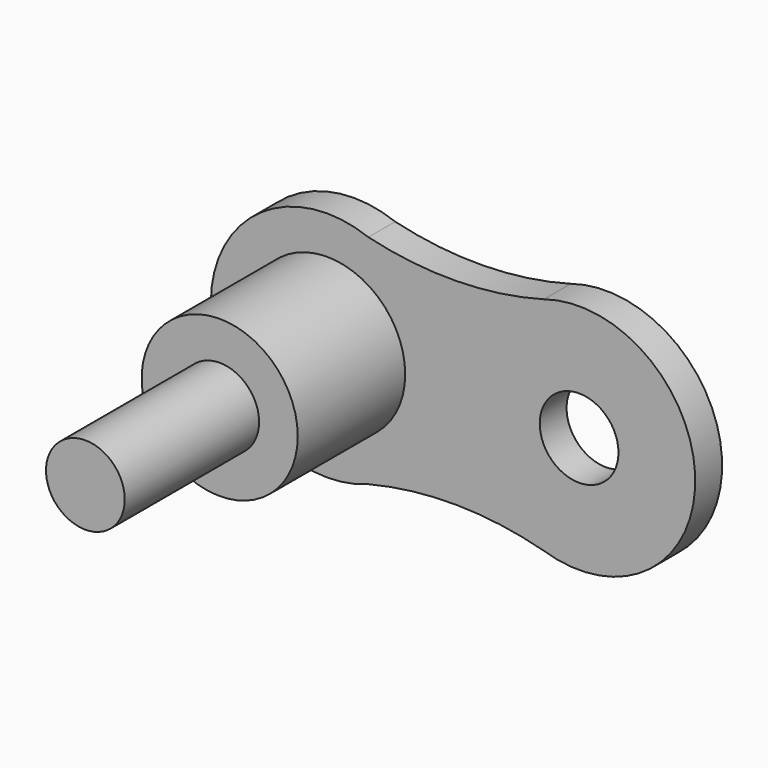
from build123d import *

# Parameters (mm, degrees)
F0_R     = 2.97815
F1_DEPTH = 2.54
F2_DEPTH = 25.4
F3_R     = 5.9055
F3_R_2   = 2.97815
F4_DEPTH = 12.7


with BuildPart() as f1:
    # F0 (on Front) → F1 (new body)
    with BuildSketch(Plane.XZ):
        with BuildLine():
            ThreePointArc((6.864087, 8.402444), (0.240415, 7.468325), (-6.405902, 8.224677))
            ThreePointArc((-6.405902, 8.224677), (-18.321254, 0), (-6.405902, -8.224677))
            ThreePointArc((-6.405902, -8.224677), (0.23665, -7.438813), (6.864087, -8.343333))
            ThreePointArc((6.864087, -8.343333), (18.322826, 0.029555), (6.864087, 8.402444))
        make_face()
        with Locations((-9.525, 0)):
            Circle(F0_R, mode=Mode.SUBTRACT)
        with Locations((9.534426, 0.029555)):
            Circle(F0_R, mode=Mode.SUBTRACT)
    extrude(amount=F1_DEPTH)


with BuildPart() as f2:
    # F0 (on Front) → F2 (new body)
    with BuildSketch(Plane.XZ):
        with Locations((-9.525, 0)):
            Circle(F0_R)
    extrude(amount=F2_DEPTH)


with BuildPart() as f4:
    # F3 (on face) → F4 (new body)
    with BuildSketch(Plane.XZ):
        with Locations((-9.525, 0)):
            Circle(F3_R)
        with Locations((-9.525, 0)):
            Circle(F3_R_2, mode=Mode.SUBTRACT)
    extrude(amount=F4_DEPTH)


solid = Compound([f1.part, f2.part, f4.part])
